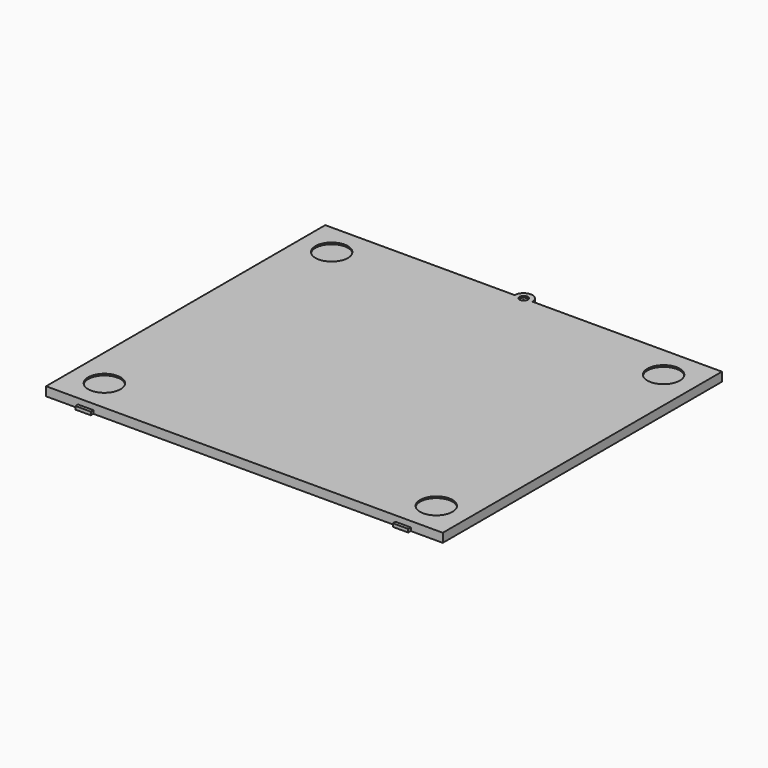
from build123d import *

# Parameters (mm, degrees)
F1_DEPTH = 2.75
F2_W     = 4.75
F2_H     = 1
F3_DEPTH = 1
F4_D     = 0.5
F4_DEPTH = 2.75
F4_TIP   = 0.1502151548
F5_R     = 5
F5_R_2   = 1.2515883102
F5_R_3   = 0.25
F6_DEPTH = 0.5


with BuildPart() as f1:
    # F0 (on Top) → F1 (new body)
    with BuildSketch(Plane.XY):
        Polygon((61.25, -53.875), (61.25, 53.875), (2.7548319194, 53.875), (-2.7548319194, 53.875), (-61.25, 53.875), (-61.25, -53.875), align=None)
        with BuildLine():
            Line((-2.7548319194, 53.875), (2.7548319194, 53.875))
            ThreePointArc((2.7548319194, 53.875), (0, 56.6298319194), (-2.7548319194, 53.875))
        make_face()
    extrude(amount=F1_DEPTH)

    # F2 (on face) → F3 (join)
    with BuildSketch(Plane.XZ.offset(53.875)):
        with Locations((-49, 0.5)):
            Rectangle(F2_W, F2_H)
        with Locations((49, 0.5)):
            Rectangle(F2_W, F2_H)
    extrude(amount=F3_DEPTH)

    # F4
    with Locations(Plane(origin=(0, 0, 0), x_dir=(1, 0, 0), z_dir=(0, 0, -1))):
        with Locations((0, -53.875)):
            Hole(F4_D / 2, depth=F4_DEPTH)
            with Locations((0, 0, -(F4_DEPTH + F4_TIP / 2))):  # 118° drill point
                Cone(0, F4_D / 2, F4_TIP, mode=Mode.SUBTRACT)

    # F5 (on face) → F6 (cut)
    with BuildSketch(Plane.XY.offset(2.75)):
        with Locations((51.25, 43.875)):
            Circle(F5_R)
        with Locations((-0.0143809427, 53.9503525943)):
            Circle(F5_R_2)
        with Locations((0, 53.875)):
            Circle(F5_R_3, mode=Mode.SUBTRACT)
        with Locations((-51.25, 43.875)):
            Circle(F5_R)
        with Locations((51.25, -43.875)):
            Circle(F5_R)
        with Locations((-51.25, -43.875)):
            Circle(F5_R)
    extrude(amount=-F6_DEPTH, mode=Mode.SUBTRACT)


solid = f1.part
